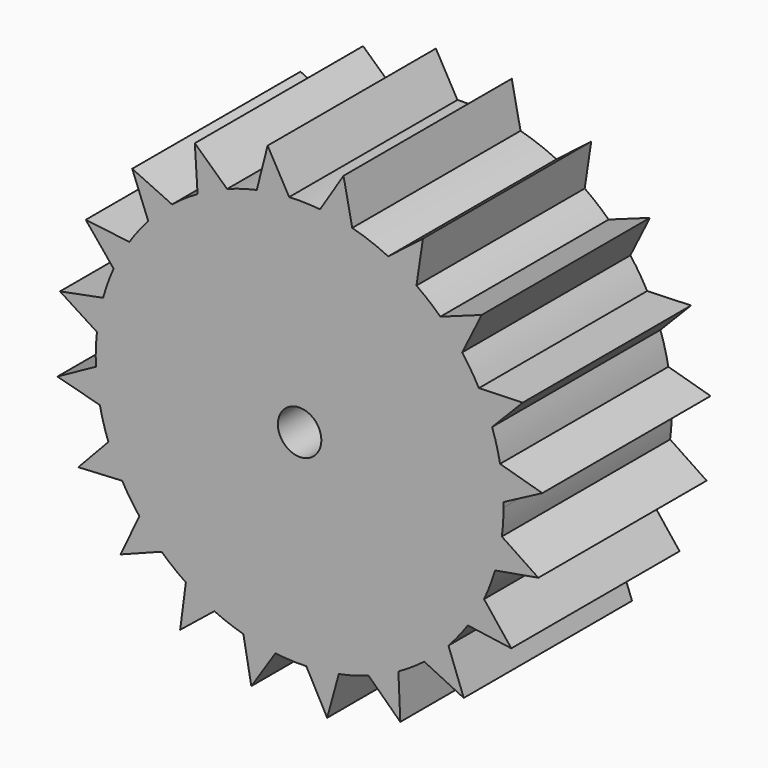
from build123d import *

# Parameters (mm, degrees)
F0_R          = 1.049364
F1_DEPTH      = 5.08
F1_DEPTH_BACK = 5.08


with BuildPart() as f1:
    # F0 (on Front) → F1 (new body, two sides)
    with BuildSketch(Plane.XZ) as f1_sk:
        with BuildLine():
            ThreePointArc((-37.025139, 22.682322), (-36.964615, 23.310248), (-36.944413, 23.940761))
            ThreePointArc((-36.944413, 23.940761), (-36.945103, 24.057295), (-36.947171, 24.173813))
            ThreePointArc((-36.947171, 24.173813), (-36.997563, 24.962594), (-37.111039, 25.744795))
            ThreePointArc((-37.111039, 25.744795), (-37.275689, 26.473733), (-37.495132, 27.188089))
            ThreePointArc((-37.495132, 27.188089), (-37.785454, 27.923227), (-38.133787, 28.632719))
            ThreePointArc((-38.133787, 28.632719), (-38.514452, 29.275801), (-38.942779, 29.88817))
            ThreePointArc((-38.942779, 29.88817), (-39.444941, 30.498537), (-39.994428, 31.066674))
            ThreePointArc((-39.994428, 31.066674), (-40.554276, 31.561679), (-41.150044, 32.012812))
            ThreePointArc((-41.150044, 32.012812), (-41.81546, 32.439352), (-42.512935, 32.811163))
            ThreePointArc((-42.512935, 32.811163), (-43.366856, 33.17471), (-44.251205, 33.456268))
            ThreePointArc((-44.251205, 33.456268), (-45.022377, 33.629499), (-45.804956, 33.740337))
            ThreePointArc((-45.804956, 33.740337), (-46.550793, 33.7871), (-47.298029, 33.777179))
            ThreePointArc((-47.298029, 33.777179), (-48.085122, 33.705072), (-48.863899, 33.570085))
            ThreePointArc((-48.863899, 33.570085), (-49.588023, 33.385412), (-50.296062, 33.146369))
            ThreePointArc((-50.296062, 33.146369), (-51.022921, 32.835901), (-51.722546, 32.468151))
            ThreePointArc((-51.722546, 32.468151), (-52.354895, 32.069911), (-52.955229, 31.624873))
            ThreePointArc((-52.955229, 31.624873), (-53.551528, 31.106083), (-54.104308, 30.541151))
            ThreePointArc((-54.104308, 30.541151), (-54.583698, 29.967875), (-55.018244, 29.359903))
            ThreePointArc((-55.018244, 29.359903), (-55.426287, 28.682987), (-55.778739, 27.975532))
            ThreePointArc((-55.778739, 27.975532), (-56.058788, 27.282688), (-56.2855, 26.570605))
            ThreePointArc((-56.2855, 26.570605), (-56.465808, 25.801057), (-56.58383, 25.019529))
            ThreePointArc((-56.58383, 25.019529), (-56.637441, 24.274153), (-56.634385, 23.526858))
            ThreePointArc((-56.634385, 23.526858), (-56.569511, 22.739135), (-56.441684, 21.959151))
            ThreePointArc((-56.441684, 21.959151), (-56.26367, 21.233361), (-56.031141, 20.523157))
            ThreePointArc((-56.031141, 20.523157), (-55.727363, 19.793476), (-55.366055, 19.090503))
            ThreePointArc((-55.366055, 19.090503), (-54.97364, 18.454523), (-54.534136, 17.850126))
            ThreePointArc((-54.534136, 17.850126), (-54.020845, 17.249087), (-53.461014, 16.69114))
            ThreePointArc((-53.461014, 16.69114), (-52.892167, 16.206504), (-52.288212, 15.766392))
            ThreePointArc((-52.288212, 15.766392), (-51.615072, 15.352148), (-50.910885, 14.993212))
            ThreePointArc((-50.910885, 14.993212), (-50.220642, 14.706811), (-49.510672, 14.473567))
            ThreePointArc((-49.510672, 14.473567), (-48.742813, 14.286198), (-47.962402, 14.161002))
            ThreePointArc((-47.962402, 14.161002), (-47.21755, 14.100547), (-46.470258, 14.096738))
            ThreePointArc((-46.470258, 14.096738), (-45.681973, 14.154373), (-44.900848, 14.27503))
            ThreePointArc((-44.900848, 14.27503), (-44.173453, 14.446369), (-43.461143, 14.672365))
            ThreePointArc((-43.461143, 14.672365), (-42.728702, 14.969428), (-42.02244, 15.324263))
            ThreePointArc((-42.02244, 15.324263), (-41.382882, 15.710819), (-40.774473, 16.144753))
            ThreePointArc((-40.774473, 16.144753), (-40.168744, 16.652501), (-39.605679, 17.207183))
            ThreePointArc((-39.605679, 17.207183), (-39.115838, 17.771555), (-38.670197, 18.371442))
            ThreePointArc((-38.670197, 18.371442), (-38.249787, 19.040748), (-37.884398, 19.741608))
            ThreePointArc((-37.884398, 19.741608), (-37.591668, 20.429191), (-37.351913, 21.136988))
            ThreePointArc((-37.351913, 21.136988), (-37.157498, 21.903094), (-37.025139, 22.682322))
        make_face()
        with Locations((-46.793749, 23.940761)):
            Circle(F0_R, mode=Mode.SUBTRACT)
        with BuildLine():
            ThreePointArc((-37.111039, 25.744795), (-36.997563, 24.962594), (-36.947171, 24.173813))
            Line((-36.947171, 24.173813), (-35.07041, 25.163614))
            Line((-35.07041, 25.163614), (-37.111039, 25.744795))
        make_face()
        with BuildLine():
            Line((-35.261809, 21.502234), (-37.025139, 22.682322))
            ThreePointArc((-37.025139, 22.682322), (-37.157498, 21.903094), (-37.351913, 21.136988))
            Line((-37.351913, 21.136988), (-35.261809, 21.502234))
        make_face()
        with BuildLine():
            ThreePointArc((-38.133787, 28.632719), (-37.785454, 27.923227), (-37.495132, 27.188089))
            Line((-37.495132, 27.188089), (-36.013299, 28.706677))
            Line((-36.013299, 28.706677), (-38.133787, 28.632719))
        make_face()
        with BuildLine():
            Line((-36.568978, 18.076794), (-37.884398, 19.741608))
            ThreePointArc((-37.884398, 19.741608), (-38.249787, 19.040748), (-38.670197, 18.371442))
            Line((-38.670197, 18.371442), (-36.568978, 18.076794))
        make_face()
        with BuildLine():
            ThreePointArc((-39.994428, 31.066674), (-39.444941, 30.498537), (-38.942779, 29.88817))
            Line((-38.942779, 29.88817), (-37.999248, 31.788615))
            Line((-37.999248, 31.788615), (-39.994428, 31.066674))
        make_face()
        with BuildLine():
            Line((-38.865442, 15.21872), (-39.605679, 17.207183))
            ThreePointArc((-39.605679, 17.207183), (-40.168744, 16.652501), (-40.774473, 16.144753))
            Line((-40.774473, 16.144753), (-38.865442, 15.21872))
        make_face()
        with BuildLine():
            ThreePointArc((-42.512935, 32.811163), (-41.81546, 32.439352), (-41.150044, 32.012812))
            Line((-41.150044, 32.012812), (-40.836107, 34.111235))
            Line((-40.836107, 34.111235), (-42.512935, 32.811163))
        make_face()
        with BuildLine():
            Line((-41.929007, 13.204544), (-42.02244, 15.324263))
            ThreePointArc((-42.02244, 15.324263), (-42.728702, 14.969428), (-43.461143, 14.672365))
            Line((-43.461143, 14.672365), (-41.929007, 13.204544))
        make_face()
        with BuildLine():
            ThreePointArc((-45.804956, 33.740337), (-45.022377, 33.629499), (-44.251205, 33.456268))
            Line((-44.251205, 33.456268), (-44.673904, 35.535514))
            Line((-44.673904, 35.535514), (-45.804956, 33.740337))
        make_face()
        with BuildLine():
            Line((-45.463259, 12.229149), (-44.900848, 14.27503))
            ThreePointArc((-44.900848, 14.27503), (-45.681973, 14.154373), (-46.470258, 14.096738))
            Line((-46.470258, 14.096738), (-45.463259, 12.229149))
        make_face()
        with BuildLine():
            ThreePointArc((-48.863899, 33.570085), (-48.085122, 33.705072), (-47.298029, 33.777179))
            Line((-47.298029, 33.777179), (-48.339167, 35.625954))
            Line((-48.339167, 35.625954), (-48.863899, 33.570085))
        make_face()
        with BuildLine():
            Line((-49.126242, 12.386907), (-47.962402, 14.161002))
            ThreePointArc((-47.962402, 14.161002), (-48.742813, 14.286198), (-49.510672, 14.473567))
            Line((-49.510672, 14.473567), (-49.126242, 12.386907))
        make_face()
        with BuildLine():
            ThreePointArc((-51.722546, 32.468151), (-51.022921, 32.835901), (-50.296062, 33.146369))
            Line((-50.296062, 33.146369), (-51.854904, 34.585796))
            Line((-51.854904, 34.585796), (-51.722546, 32.468151))
        make_face()
        with BuildLine():
            Line((-52.563546, 13.662555), (-50.910885, 14.993212))
            ThreePointArc((-50.910885, 14.993212), (-51.615072, 15.352148), (-52.288212, 15.766392))
            Line((-52.288212, 15.766392), (-52.563546, 13.662555))
        make_face()
        with BuildLine():
            ThreePointArc((-54.104308, 30.541151), (-53.551528, 31.106083), (-52.955229, 31.624873))
            Line((-52.955229, 31.624873), (-54.88095, 32.51568))
            Line((-54.88095, 32.51568), (-54.104308, 30.541151))
        make_face()
        with BuildLine():
            Line((-55.442594, 15.932668), (-53.461014, 16.69114))
            ThreePointArc((-53.461014, 16.69114), (-54.020845, 17.249087), (-54.534136, 17.850126))
            Line((-54.534136, 17.850126), (-55.442594, 15.932668))
        make_face()
        with BuildLine():
            ThreePointArc((-55.778739, 27.975532), (-55.426287, 28.682987), (-55.018244, 29.359903))
            Line((-55.018244, 29.359903), (-57.124521, 29.6159))
            Line((-57.124521, 29.6159), (-55.778739, 27.975532))
        make_face()
        with BuildLine():
            Line((-57.484826, 18.977603), (-55.366055, 19.090503))
            ThreePointArc((-55.366055, 19.090503), (-55.727363, 19.793476), (-56.031141, 20.523157))
            Line((-56.031141, 20.523157), (-57.484826, 18.977603))
        make_face()
        with BuildLine():
            ThreePointArc((-56.58383, 25.019529), (-56.465808, 25.801057), (-56.2855, 26.570605))
            Line((-56.2855, 26.570605), (-58.368541, 26.167024))
            Line((-58.368541, 26.167024), (-56.58383, 25.019529))
        make_face()
        with BuildLine():
            Line((-58.492645, 22.502746), (-56.441684, 21.959151))
            ThreePointArc((-56.441684, 21.959151), (-56.569511, 22.739135), (-56.634385, 23.526858))
            Line((-56.634385, 23.526858), (-58.492645, 22.502746))
        make_face()
    extrude(amount=F1_DEPTH)
    extrude(f1_sk.sketch, amount=-F1_DEPTH_BACK)


solid = f1.part
